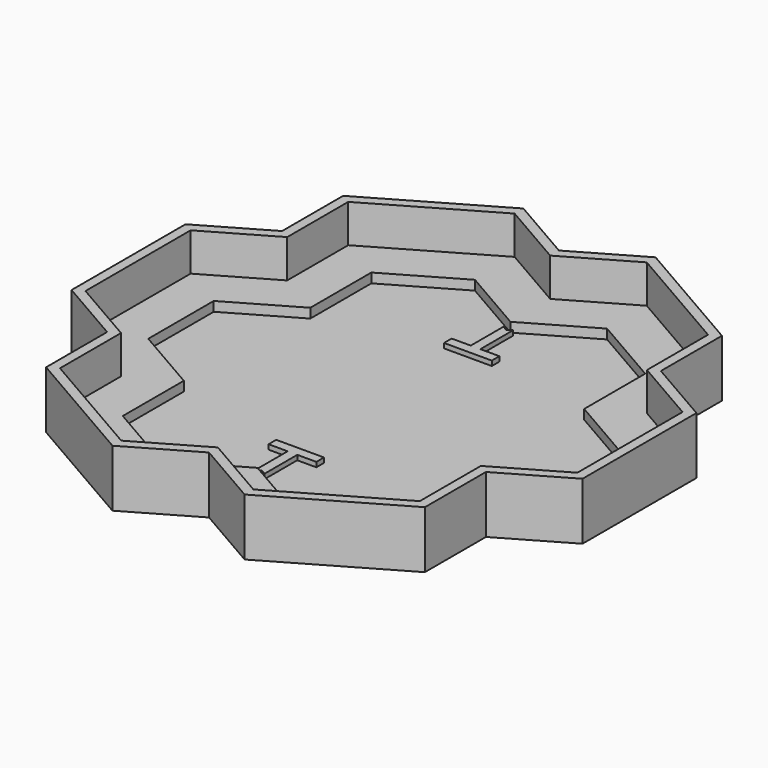
from build123d import *

# Parameters (mm, degrees)
F1_DEPTH = 6.35
F2_DEPTH = 19.05
F3_DEPTH = 3.175
F4_DEPTH = 4.7752


with BuildPart() as f1:
    # F0 (on Top) → F1 (new body)
    with BuildSketch(Plane.XY):
        Polygon((-0.9413762387, 68.4384813374), (-22.9384214948, 81.1384813374), (-60.8358643949, 59.2583824775), (-60.8358643949, 33.8583824775), (-82.832909651, 21.1583824775), (-82.832909651, -22.6018152425), (-60.8358643949, -35.3018152425), (-60.8358643949, -60.7018152425), (-22.9384214948, -82.5819141025), (-0.9413762387, -69.8819141025), (21.0556690175, -82.5819141025), (58.9531119176, -60.7018152425), (58.9531119176, -35.3018152425), (80.9501571737, -22.6018152425), (80.9501571737, 21.1583824775), (58.9531119176, 33.8583824775), (58.9531119176, 59.2583824775), (21.0556690175, 81.1384813374), align=None)
        Polygon((-70.1329112053, 13.8260349561), (-48.1358659492, 26.5260349561), (-48.1358659492, 51.9260349561), (-22.9384214948, 66.4737862947), (-0.9413762387, 53.7737862947), (21.0556690175, 66.4737862947), (46.2531134718, 51.9260349561), (46.2531134718, 26.5260349561), (68.250158728, 13.8260349561), (68.250158728, -15.2694677211), (46.2531134718, -27.9694677211), (46.2531134718, -53.3694677211), (21.0556690175, -67.9172190598), (-0.9413762387, -55.2172190598), (-22.9384214948, -67.9172190598), (-48.1358659492, -53.3694677211), (-48.1358659492, -27.9694677211), (-70.1329112053, -15.2694677211), align=None, mode=Mode.SUBTRACT)
        Polygon((-48.1358659492, 51.9260349561), (-48.1358659492, 26.5260349561), (-70.1329112053, 13.8260349561), (-70.1329112053, -15.2694677211), (-48.1358659492, -27.9694677211), (-48.1358659492, -53.3694677211), (-22.9384214948, -67.9172190598), (-0.9413762387, -55.2172190598), (21.0556690175, -67.9172190598), (46.2531134718, -53.3694677211), (46.2531134718, -27.9694677211), (68.250158728, -15.2694677211), (68.250158728, 13.8260349561), (46.2531134718, 26.5260349561), (46.2531134718, 51.9260349561), (21.0556690175, 66.4737862947), (-0.9413762387, 53.7737862947), (-22.9384214948, 66.4737862947), align=None)
        Polygon((-0.9413762387, -53.3694675591), (-22.9384214948, -66.0694675591), (-46.5356662097, -52.4455919708), (-46.5356662097, -27.0455919708), (-68.5327114659, -14.3455919708), (-68.5327114659, 12.9021592058), (-46.5356662097, 25.6021592058), (-46.5356662097, 51.0021592058), (-22.9384214948, 64.6260347941), (-0.9413762387, 51.9260347941), (21.0556690175, 64.6260347941), (44.6529137324, 51.0021592058), (44.6529137324, 25.6021592058), (66.6499589885, 12.9021592058), (66.6499589885, -14.3455919708), (44.6529137324, -27.0455919708), (44.6529137324, -52.4455919708), (21.0556690175, -66.0694675591), align=None, mode=Mode.SUBTRACT)
    extrude(amount=F1_DEPTH)


with BuildPart() as f2:
    # F0 (on Top) → F2 (new body)
    with BuildSketch(Plane.XY):
        Polygon((-64.0057814345, 61.0885349336), (-64.0057814345, 35.6885349336), (-86.0028266907, 22.9885349336), (-86.0028266907, -24.4319676986), (-64.0057814345, -37.1319676986), (-64.0057814345, -62.5319676986), (-22.9384214948, -86.2422190148), (-0.9413762387, -73.5422190148), (21.0556690175, -86.2422190148), (62.1230289572, -62.5319676986), (62.1230289572, -37.1319676986), (84.1200742133, -24.4319676986), (84.1200742133, 22.9885349336), (62.1230289572, 35.6885349336), (62.1230289572, 61.0885349336), (21.0556690175, 84.7987862497), (-0.9413762387, 72.0987862497), (-22.9384214948, 84.7987862497), align=None)
        Polygon((-60.8358643949, 59.2583824775), (-22.9384214948, 81.1384813374), (-0.9413762387, 68.4384813374), (21.0556690175, 81.1384813374), (58.9531119176, 59.2583824775), (58.9531119176, 33.8583824775), (80.9501571737, 21.1583824775), (80.9501571737, -22.6018152425), (58.9531119176, -35.3018152425), (58.9531119176, -60.7018152425), (21.0556690175, -82.5819141025), (-0.9413762387, -69.8819141025), (-22.9384214948, -82.5819141025), (-60.8358643949, -60.7018152425), (-60.8358643949, -35.3018152425), (-82.832909651, -22.6018152425), (-82.832909651, 21.1583824775), (-60.8358643949, 33.8583824775), align=None, mode=Mode.SUBTRACT)
    extrude(amount=F2_DEPTH)


with BuildPart() as f3:
    # F0 (on Top) → F3 (new body)
    with BuildSketch(Plane.XY):
        Polygon((-46.5356662097, -52.4455919708), (-22.9384214948, -66.0694675591), (-0.9413762387, -53.3694675591), (21.0556690175, -66.0694675591), (44.6529137324, -52.4455919708), (44.6529137324, -27.0455919708), (66.6499589885, -14.3455919708), (66.6499589885, 12.9021592058), (44.6529137324, 25.6021592058), (44.6529137324, 51.0021592058), (21.0556690175, 64.6260347941), (-0.9413762387, 51.9260347941), (-22.9384214948, 64.6260347941), (-46.5356662097, 51.0021592058), (-46.5356662097, 25.6021592058), (-68.5327114659, 12.9021592058), (-68.5327114659, -14.3455919708), (-46.5356662097, -27.0455919708), align=None)
        Polygon((-66.932512007, 11.9782836175), (-44.9354667509, 24.6782836175), (-44.9354667509, 50.0782836175), (-22.9384214948, 62.7782836175), (-2.5415762387, 51.0021595182), (-0.9413762387, 50.0782836175), (0.6588237613, 51.0021595182), (21.0556690175, 62.7782836175), (43.0527142736, 50.0782836175), (43.0527142736, 24.6782836175), (65.0497595297, 11.9782836175), (65.0497595297, -13.4217163825), (43.0527142736, -26.1217163825), (43.0527142736, -51.5217163825), (21.0556690175, -64.2217163825), (0.6588237613, -52.4455922833), (-0.9413762387, -51.5217163825), (-2.5415762387, -52.4455922833), (-22.9384214948, -64.2217163825), (-44.9354667509, -51.5217163825), (-44.9354667509, -26.1217163825), (-66.932512007, -13.4217163825), align=None, mode=Mode.SUBTRACT)
        Polygon((-44.9354667509, 50.0782836175), (-44.9354667509, 24.6782836175), (-66.932512007, 11.9782836175), (-66.932512007, -13.4217163825), (-44.9354667509, -26.1217163825), (-44.9354667509, -51.5217163825), (-22.9384214948, -64.2217163825), (-2.5415762387, -52.4455922833), (-2.5415762387, -51.5217163825), (-2.5415762387, -38.8217163825), (-8.8915762387, -38.8217163825), (-8.8915762387, -35.6467163825), (7.0088237613, -35.6467163825), (7.0088237613, -38.8217163825), (0.6588237613, -38.8217163825), (0.6588237613, -51.5217163825), (0.6588237613, -52.4455922833), (21.0556690175, -64.2217163825), (43.0527142736, -51.5217163825), (43.0527142736, -26.1217163825), (65.0497595297, -13.4217163825), (65.0497595297, 11.9782836175), (43.0527142736, 24.6782836175), (43.0527142736, 50.0782836175), (21.0556690175, 62.7782836175), (0.6588237613, 51.0021595182), (0.6588237613, 50.0782836175), (0.6588237613, 37.3782836175), (7.0088237613, 37.3782836175), (7.0088237613, 34.2032836175), (-8.8915762387, 34.2032836175), (-8.8915762387, 37.3782836175), (-2.5415762387, 37.3782836175), (-2.5415762387, 50.0782836175), (-2.5415762387, 51.0021595182), (-22.9384214948, 62.7782836175), align=None)
    extrude(amount=F3_DEPTH)

    # F0 (on Top) → F4 (join)
    with BuildSketch(Plane.XY):
        Polygon((0.6588237613, 37.3782836175), (-2.5415762387, 37.3782836175), (-8.8915762387, 37.3782836175), (-8.8915762387, 34.2032836175), (7.0088237613, 34.2032836175), (7.0088237613, 37.3782836175), align=None)
        Polygon((-0.9413762387, 50.0782836175), (-2.5415762387, 51.0021595182), (-2.5415762387, 50.0782836175), (-2.5415762387, 37.3782836175), (0.6588237613, 37.3782836175), (0.6588237613, 50.0782836175), (0.6588237613, 51.0021595182), align=None)
        Polygon((-2.5415762387, -51.5217163825), (-2.5415762387, -52.4455922833), (-0.9413762387, -51.5217163825), (0.6588237613, -52.4455922833), (0.6588237613, -51.5217163825), (0.6588237613, -38.8217163825), (-2.5415762387, -38.8217163825), align=None)
        Polygon((-8.8915762387, -38.8217163825), (-2.5415762387, -38.8217163825), (0.6588237613, -38.8217163825), (7.0088237613, -38.8217163825), (7.0088237613, -35.6467163825), (-8.8915762387, -35.6467163825), align=None)
    extrude(amount=F4_DEPTH)


solid = Compound([f1.part, f2.part, f3.part])
